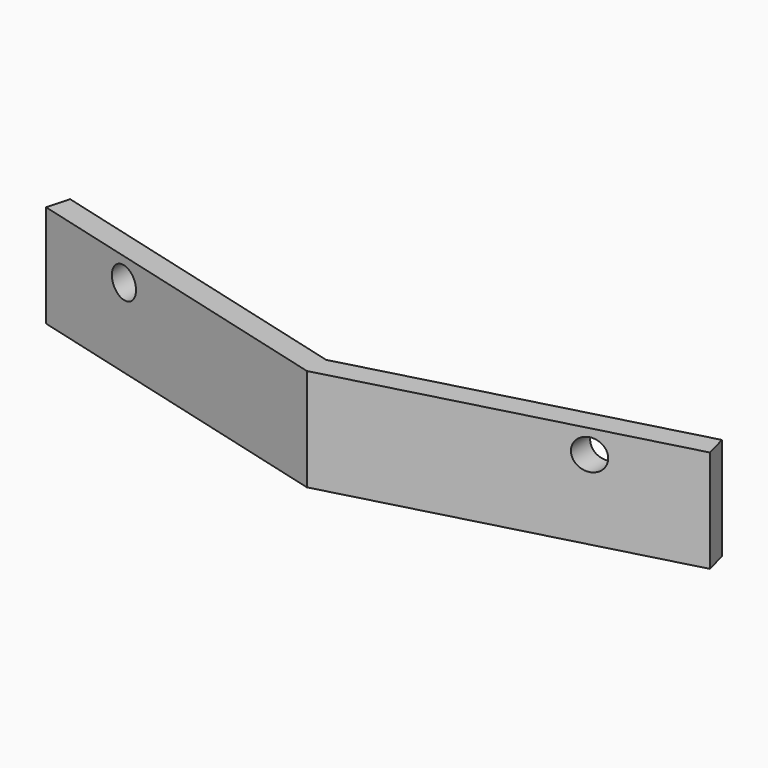
from build123d import *

# Parameters (mm, degrees)
F1_DEPTH = 22
F3_D     = 6.6


with BuildPart() as f1:
    # F0 (on Top) → F1 (new body)
    with BuildSketch(Plane.XY):
        Polygon((-70, 23.9328243722), (-71.2940952255, 19.1031952408), (0, 0), (71.2940952255, 19.1031952408), (70, 23.9328243722), (0, 5.1763809021), align=None)
    extrude(amount=F1_DEPTH)

    # F3 (through all)
    with Locations(Plane.XZ):
        with Locations((-50, 17), (50, 17)):
            Hole(F3_D / 2)


solid = f1.part
